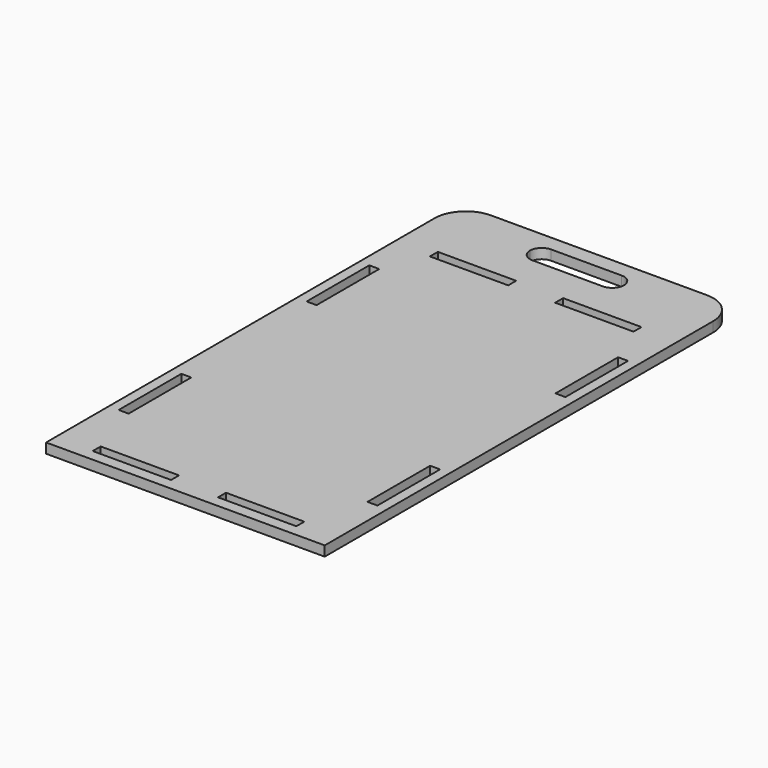
from build123d import *

# Parameters (mm, degrees)
F0_W     = 12.7
F0_H     = 100
F0_W_2   = 100
F0_H_2   = 12.7
F1_DEPTH = 12.7
F3_DEPTH = 12.7


with BuildPart() as f1:
    # F0 (on Top) → F1 (new body)
    with BuildSketch(Plane.XY):
        with BuildLine():
            Line((-177.9, -330), (177.9, -330))
            Line((177.9, -330), (177.9, 290))
            ThreePointArc((177.9, 290), (166.184271, 318.284271), (137.9, 330))
            Line((137.9, 330), (-137.9, 330))
            ThreePointArc((-137.9, 330), (-166.184271, 318.284271), (-177.9, 290))
            Line((-177.9, 290), (-177.9, -330))
        make_face()
        with Locations((-158.85, -180)):
            Rectangle(F0_W, F0_H, mode=Mode.SUBTRACT)
        with Locations((-80, -309.05)):
            Rectangle(F0_W_2, F0_H_2, mode=Mode.SUBTRACT)
        with Locations((80, -309.05)):
            Rectangle(F0_W_2, F0_H_2, mode=Mode.SUBTRACT)
        with Locations((158.85, -180)):
            Rectangle(F0_W, F0_H, mode=Mode.SUBTRACT)
        with Locations((-158.85, 120)):
            Rectangle(F0_W, F0_H, mode=Mode.SUBTRACT)
        with Locations((-80, 229.05)):
            Rectangle(F0_W_2, F0_H_2, mode=Mode.SUBTRACT)
        with Locations((158.85, 120)):
            Rectangle(F0_W, F0_H, mode=Mode.SUBTRACT)
        with Locations((80, 229.05)):
            Rectangle(F0_W_2, F0_H_2, mode=Mode.SUBTRACT)
    extrude(amount=F1_DEPTH)

    # F2 (on face) → F3 (cut, through all)
    with BuildSketch(Plane.XY.offset(12.7)):
        with BuildLine():
            ThreePointArc((-60, 295), (-55.606602, 284.393398), (-45, 280))
            Line((-45, 280), (45, 280))
            ThreePointArc((45, 280), (55.606602, 284.393398), (60, 295))
            ThreePointArc((60, 295), (55.606602, 305.606602), (45, 310))
            Line((45, 310), (-45, 310))
            ThreePointArc((-45, 310), (-55.606602, 305.606602), (-60, 295))
        make_face()
    extrude(amount=-F3_DEPTH, mode=Mode.SUBTRACT)


solid = f1.part
